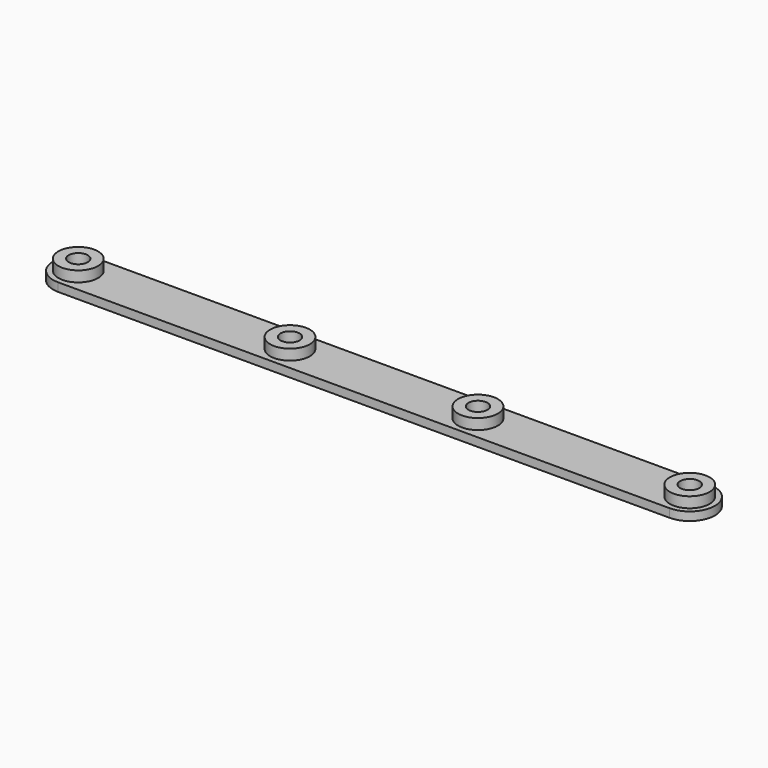
from build123d import *

# Parameters (mm, degrees)
PAD003_DEPTH        = 1.6
SKETCH006_R         = 3.75
PAD004_DEPTH        = 3.6
HOLE001_D           = 3.6
HOLE001_DEPTH       = 25
HOLE001_CSINK_D     = 6.7
HOLE001_CSINK_ANGLE = 90


with BuildPart() as part:
    # Sketch005 → Pad003 (new body)
    with BuildSketch(Plane.XY):
        with BuildLine():
            Line((-57.75, 4.75), (57.75, 4.75))
            ThreePointArc((57.75, -4.75), (62.5, 0), (57.75, 4.75))
            Line((57.75, -4.75), (-57.75, -4.75))
            ThreePointArc((-57.75, 4.75), (-62.5, 0), (-57.75, -4.75))
        make_face()
    extrude(amount=PAD003_DEPTH)

    # Sketch006 → Pad004 (join)
    with BuildSketch(Plane.XY):
        with Locations((-57.75, 0)):
            Circle(SKETCH006_R)
        with Locations((-17.75, 0)):
            Circle(SKETCH006_R)
        with Locations((17.75, 0)):
            Circle(SKETCH006_R)
        with Locations((57.75, 0)):
            Circle(SKETCH006_R)
    extrude(amount=PAD004_DEPTH)

    # Hole001
    with Locations(Plane(origin=(0, 0, 0), x_dir=(1, 0, 0), z_dir=(0, 0, -1))):
        with Locations((-57.75, 0), (-17.75, 0), (17.75, 0), (57.75, 0)):
            CounterSinkHole(HOLE001_D / 2, HOLE001_CSINK_D / 2, depth=HOLE001_DEPTH, counter_sink_angle=HOLE001_CSINK_ANGLE)


with BuildPart() as part_1:
    # Body001 placement: moved
    add(part.part.moved(Location((0, 36, -32))))


solid = part_1.part
